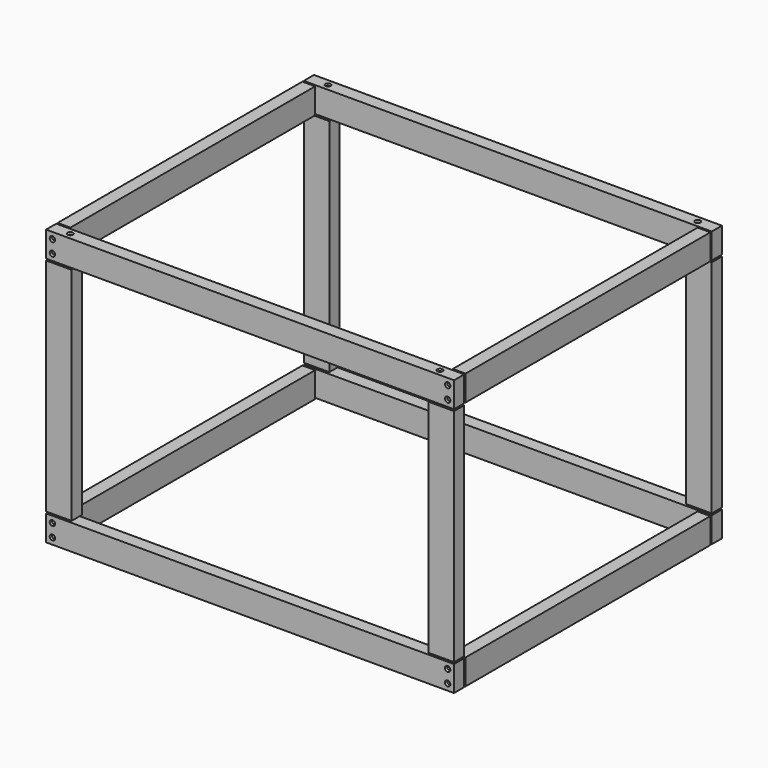
from build123d import *

# Parameters (mm, degrees)
F0_W              = 38.1
F0_H              = 330.2
F1_DEPTH          = 19.05
F0_W_2            = 609.6
F0_H_2            = 38.1
F2_W              = 457.2
F2_H              = 38.1
F3_DEPTH          = 19.05
F5_W              = 609.6
F5_H              = 38.1
F6_DEPTH          = 19.05
F5_W_2            = 38.1
F5_H_2            = 330.2
F7_W              = 457.2
F7_H              = 38.1
F8_DEPTH          = 19.05
F10_D             = 4.445
F10_CSINK_D       = 8.128
F10_CSINK_ANGLE   = 82
F10_2_D           = 4.445
F10_2_CSINK_D     = 8.128
F10_2_CSINK_ANGLE = 82
F12_D             = 4.445
F12_CSINK_D       = 8.128
F12_CSINK_ANGLE   = 82
F12_2_D           = 4.445
F12_2_CSINK_D     = 8.128
F12_2_CSINK_ANGLE = 82
F14_D             = 4.445
F14_CSINK_D       = 8.128
F14_CSINK_ANGLE   = 82
F14_2_D           = 4.445
F14_2_CSINK_D     = 8.128
F14_2_CSINK_ANGLE = 82
F16_D             = 4.445
F16_CSINK_D       = 8.128
F16_CSINK_ANGLE   = 82
F16_2_D           = 4.445
F16_2_CSINK_D     = 8.128
F16_2_CSINK_ANGLE = 82


with BuildPart() as f1:
    # F0 (on Front) → F1 (new body)
    with BuildSketch(Plane.XZ):
        with Locations((-501.2739842415, -182.3285269833)):
            Rectangle(F0_W, F0_H)
    extrude(amount=F1_DEPTH)


with BuildPart() as f1b:
    # F0 (on Front) → F1, piece 2 (new body)
    with BuildSketch(Plane.XZ):
        with Locations((-215.5239842415, 4.3614730167)):
            Rectangle(F0_W_2, F0_H_2)
    extrude(amount=F1_DEPTH)

    # F10 (through all)
    with Locations(Plane.XY.offset(23.4114730167)):
        with Locations((-491.7489842415, -9.525), (60.7010157585, -9.525), (60.7010157585, 471.805), (-491.7489842415, 471.805)):
            CounterSinkHole(F10_D / 2, F10_CSINK_D / 2, counter_sink_angle=F10_CSINK_ANGLE)

    # F16 (through all)
    with Locations(Plane.XZ.offset(19.05)):
        with Locations((79.7510157585, -378.5435269833), (79.7510157585, -359.4935269833), (-510.7989842415, -378.5435269833), (-510.7989842415, -359.4935269833), (-510.7989842415, 13.8864730167), (-510.7989842415, -5.1635269833), (79.7510157585, 13.8864730167), (79.7510157585, -5.1635269833)):
            CounterSinkHole(F16_D / 2, F16_CSINK_D / 2, counter_sink_angle=F16_CSINK_ANGLE)


with BuildPart() as f1c:
    # F0 (on Front) → F1, piece 3 (new body)
    with BuildSketch(Plane.XZ):
        with Locations((70.2260157585, -182.3285269833)):
            Rectangle(F0_W, F0_H)
    extrude(amount=F1_DEPTH)


with BuildPart() as f1d:
    # F0 (on Front) → F1, piece 4 (new body)
    with BuildSketch(Plane.XZ):
        with Locations((-215.5239842415, -369.0185269833)):
            Rectangle(F0_W_2, F0_H_2)
    extrude(amount=F1_DEPTH)

    # F12 (through all)
    with Locations(Plane(origin=(0, 0, -388.0685269833), x_dir=(1, 0, 0), z_dir=(0, 0, -1))):
        with Locations((-491.7489842415, 9.525), (60.7010157585, 9.525), (-491.7489842415, -471.805), (60.7010157585, -471.805)):
            CounterSinkHole(F12_D / 2, F12_CSINK_D / 2, counter_sink_angle=F12_CSINK_ANGLE)

    # F16#2 (through all)
    with Locations(Plane.XZ.offset(19.05)):
        with Locations((79.7510157585, -378.5435269833), (79.7510157585, -359.4935269833), (-510.7989842415, -378.5435269833), (-510.7989842415, -359.4935269833), (-510.7989842415, 13.8864730167), (-510.7989842415, -5.1635269833), (79.7510157585, 13.8864730167), (79.7510157585, -5.1635269833)):
            CounterSinkHole(F16_2_D / 2, F16_2_CSINK_D / 2, counter_sink_angle=F16_2_CSINK_ANGLE)


with BuildPart() as f3:
    # F2 (on face) → F3 (new body)
    with BuildSketch(Plane.YZ.offset(89.2760157585)):
        with Locations((231.14, 4.3614730167)):
            Rectangle(F2_W, F2_H)
    extrude(amount=-F3_DEPTH)


with BuildPart() as f3b:
    # F2 (on face) → F3, piece 2 (new body)
    with BuildSketch(Plane.YZ.offset(89.2760157585)):
        with Locations((231.14, -369.0185269833)):
            Rectangle(F2_W, F2_H)
    extrude(amount=-F3_DEPTH)


with BuildPart() as f6:
    # F5 (on offset) → F6 (new body)
    with BuildSketch(Plane(origin=(0, 462.28, 0), x_dir=(-1, 0, 0), z_dir=(0, 1, 0))):
        with Locations((215.5239842415, 4.3614730167)):
            Rectangle(F5_W, F5_H)
    extrude(amount=F6_DEPTH)

    # F10#2 (through all)
    with Locations(Plane.XY.offset(23.4114730167)):
        with Locations((-491.7489842415, -9.525), (60.7010157585, -9.525), (60.7010157585, 471.805), (-491.7489842415, 471.805)):
            CounterSinkHole(F10_2_D / 2, F10_2_CSINK_D / 2, counter_sink_angle=F10_2_CSINK_ANGLE)

    # F14 (through all)
    with Locations(Plane(origin=(0, 481.33, 0), x_dir=(-1, 0, 0), z_dir=(0, 1, 0))):
        with Locations((510.7989842415, -378.5435269833), (510.7989842415, -359.4935269833), (-79.7510157585, -378.5435269833), (-79.7510157585, -359.4935269833), (-79.7510157585, -5.1635269833), (-79.7510157585, 13.8864730167), (510.7989842415, -5.1635269833), (510.7989842415, 13.8864730167)):
            CounterSinkHole(F14_D / 2, F14_CSINK_D / 2, counter_sink_angle=F14_CSINK_ANGLE)


with BuildPart() as f6b:
    # F5 (on offset) → F6, piece 2 (new body)
    with BuildSketch(Plane(origin=(0, 462.28, 0), x_dir=(-1, 0, 0), z_dir=(0, 1, 0))):
        with Locations((501.2739842415, -182.3285269833)):
            Rectangle(F5_W_2, F5_H_2)
    extrude(amount=F6_DEPTH)


with BuildPart() as f6c:
    # F5 (on offset) → F6, piece 3 (new body)
    with BuildSketch(Plane(origin=(0, 462.28, 0), x_dir=(-1, 0, 0), z_dir=(0, 1, 0))):
        with Locations((215.5239842415, -369.0185269833)):
            Rectangle(F5_W, F5_H)
    extrude(amount=F6_DEPTH)

    # F12#2 (through all)
    with Locations(Plane(origin=(0, 0, -388.0685269833), x_dir=(1, 0, 0), z_dir=(0, 0, -1))):
        with Locations((-491.7489842415, 9.525), (60.7010157585, 9.525), (-491.7489842415, -471.805), (60.7010157585, -471.805)):
            CounterSinkHole(F12_2_D / 2, F12_2_CSINK_D / 2, counter_sink_angle=F12_2_CSINK_ANGLE)

    # F14#2 (through all)
    with Locations(Plane(origin=(0, 481.33, 0), x_dir=(-1, 0, 0), z_dir=(0, 1, 0))):
        with Locations((510.7989842415, -378.5435269833), (510.7989842415, -359.4935269833), (-79.7510157585, -378.5435269833), (-79.7510157585, -359.4935269833), (-79.7510157585, -5.1635269833), (-79.7510157585, 13.8864730167), (510.7989842415, -5.1635269833), (510.7989842415, 13.8864730167)):
            CounterSinkHole(F14_2_D / 2, F14_2_CSINK_D / 2, counter_sink_angle=F14_2_CSINK_ANGLE)


with BuildPart() as f6d:
    # F5 (on offset) → F6, piece 4 (new body)
    with BuildSketch(Plane(origin=(0, 462.28, 0), x_dir=(-1, 0, 0), z_dir=(0, 1, 0))):
        with Locations((-70.2260157585, -182.3285269833)):
            Rectangle(F5_W_2, F5_H_2)
    extrude(amount=F6_DEPTH)


with BuildPart() as f8:
    # F7 (on face) → F8 (new body)
    with BuildSketch(Plane(origin=(-520.3239842415, 0, 0), x_dir=(0, -1, 0), z_dir=(-1, 0, 0))):
        with Locations((-231.14, 4.3614730167)):
            Rectangle(F7_W, F7_H)
    extrude(amount=-F8_DEPTH)


with BuildPart() as f8b:
    # F7 (on face) → F8, piece 2 (new body)
    with BuildSketch(Plane(origin=(-520.3239842415, 0, 0), x_dir=(0, -1, 0), z_dir=(-1, 0, 0))):
        with Locations((-231.14, -369.0185269833)):
            Rectangle(F7_W, F7_H)
    extrude(amount=-F8_DEPTH)


solid = Compound([f1.part, f1b.part, f1c.part, f1d.part, f3.part, f3b.part, f6.part, f6b.part, f6c.part, f6d.part, f8.part, f8b.part])
